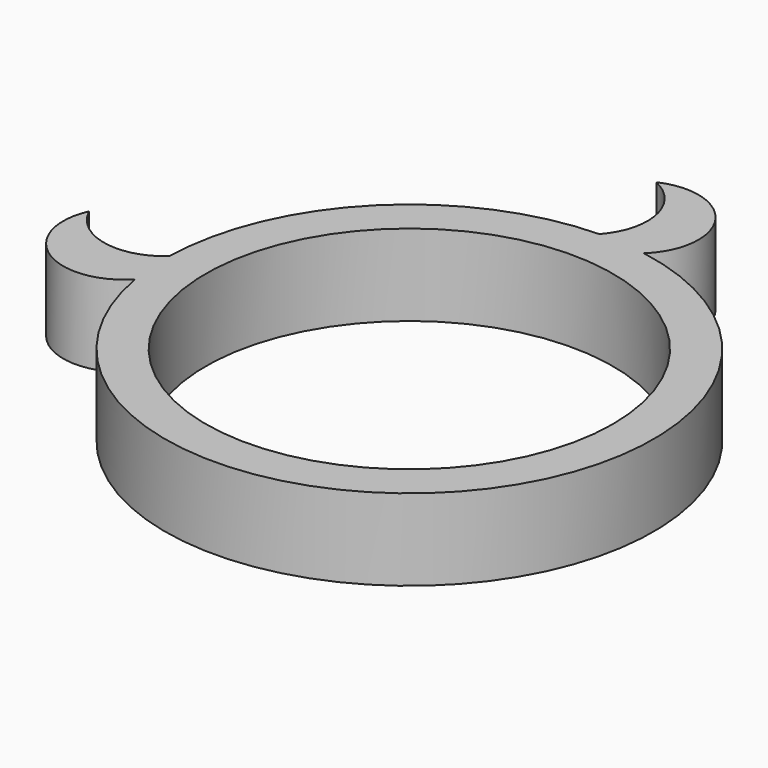
from build123d import *

# Parameters (mm, degrees)
CYLINDER001_R     = 5
CYLINDER001_DEPTH = 3
CYLINDER_R        = 6
CYLINDER_DEPTH    = 2
CYLINDER005_R     = 1.5
CYLINDER005_DEPTH = 10
CYLINDER004_R     = 1.5
CYLINDER004_DEPTH = 10
CYLINDER003_R     = 1.5
CYLINDER003_DEPTH = 2
CYLINDER002_R     = 1.5
CYLINDER002_DEPTH = 2


with BuildPart() as cylinder001:
    # Cylinder001 → Cylinder001 (new body)
    with BuildSketch(Plane.XY):
        Circle(CYLINDER001_R)
    extrude(amount=CYLINDER001_DEPTH)


with BuildPart() as cut:
    # Cylinder → Cylinder (new body)
    with BuildSketch(Plane.XY):
        Circle(CYLINDER_R)
    extrude(amount=CYLINDER_DEPTH)

    # Cut: cut Cylinder001
    add(cylinder001.part, mode=Mode.SUBTRACT)


with BuildPart() as cylinder005:
    # Cylinder005 → Cylinder005 (new body)
    with BuildSketch(Plane(origin=(-1.25, 7, 0), x_dir=(1, 0, 0), z_dir=(0, 0, 1))):
        Circle(CYLINDER005_R)
    extrude(amount=CYLINDER005_DEPTH)


with BuildPart() as fusion:
    # Cylinder004 → Cylinder004 (new body)
    with BuildSketch(Plane(origin=(-7, 1.25, 0), x_dir=(1, 0, 0), z_dir=(0, 0, 1))):
        Circle(CYLINDER004_R)
    extrude(amount=CYLINDER004_DEPTH)

    # Fusion: union Cylinder005
    add(cylinder005.part)


with BuildPart() as cylinder003:
    # Cylinder003 → Cylinder003 (new body)
    with BuildSketch(Plane(origin=(0, 7, 0), x_dir=(1, 0, 0), z_dir=(0, 0, 1))):
        Circle(CYLINDER003_R)
    extrude(amount=CYLINDER003_DEPTH)


with BuildPart() as fusion002:
    # Cylinder002 → Cylinder002 (new body)
    with BuildSketch(Plane(origin=(-7, 0, 0), x_dir=(1, 0, 0), z_dir=(0, 0, 1))):
        Circle(CYLINDER002_R)
    extrude(amount=CYLINDER002_DEPTH)

    # Fusion001: union Cylinder003
    add(cylinder003.part)

    # Cut001: cut Fusion
    add(fusion.part, mode=Mode.SUBTRACT)

    # Fusion002: union Cut
    add(cut.part)


solid = fusion002.part
